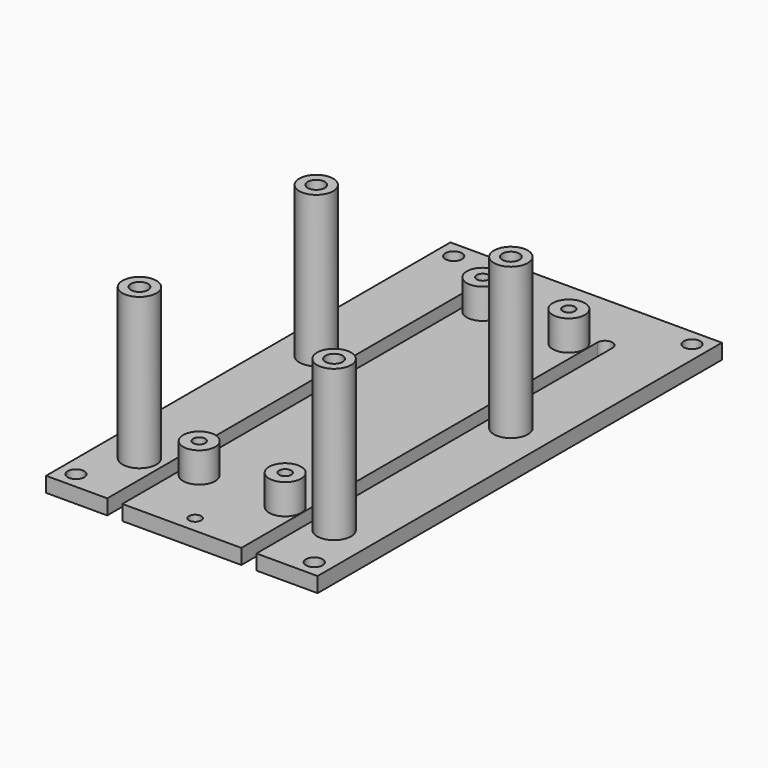
from build123d import *

# Parameters (mm, degrees)
SKETCH006_W     = 36
SKETCH006_H     = 67
PAD003_DEPTH    = 2
SKETCH007_R     = 2.125
PAD004_DEPTH    = 4
SKETCH012_R     = 1.1
POCKET002_DEPTH = 2.001
SKETCH022_R     = 0.8
POCKET008_DEPTH = 6.001
SKETCH040_R     = 2.25
PAD024_DEPTH    = 20
SKETCH041_R     = 1.1303
POCKET012_DEPTH = 22.001
SKETCH047_R     = 0.8
SKETCH047_W     = 2
SKETCH047_H     = 33.5
POCKET_DEPTH    = 22.001


with BuildPart() as part:
    # Sketch006 → Pad003 (new body)
    with BuildSketch(Plane.XY):
        with Locations((18, 33.5)):
            Rectangle(SKETCH006_W, SKETCH006_H)
    extrude(amount=PAD003_DEPTH)

    # Sketch007 (on DatumPlane) → Pad004 (join)
    with BuildSketch(Plane.XY.offset(2)):
        with Locations((12.3, 57)):
            Circle(SKETCH007_R)
        with Locations((23.7, 57)):
            Circle(SKETCH007_R)
        with Locations((23.7, 10)):
            Circle(SKETCH007_R)
        with Locations((12.3, 10)):
            Circle(SKETCH007_R)
    extrude(amount=PAD004_DEPTH)

    # Sketch012 (on DatumPlane) → Pocket002 (cut, through all)
    with BuildSketch(Plane.XY.offset(2)):
        with Locations((2.2, 64.8)):
            Circle(SKETCH012_R)
        with Locations((33.8, 64.8)):
            Circle(SKETCH012_R)
        with Locations((33.8, 2.2)):
            Circle(SKETCH012_R)
        with Locations((2.2, 2.2)):
            Circle(SKETCH012_R)
        with BuildLine():
            ThreePointArc((10.11, 59), (9.11, 60), (8.11, 59))
            Line((8.11, 59), (8.11, 8))
            ThreePointArc((8.11, 8), (9.11, 7), (10.11, 8))
            Line((10.11, 8), (10.11, 59))
        make_face()
        with BuildLine():
            ThreePointArc((25.89, 8), (26.89, 7), (27.89, 8))
            Line((27.89, 8), (27.89, 59))
            ThreePointArc((27.89, 59), (26.89, 60), (25.89, 59))
            Line((25.89, 59), (25.89, 8))
        make_face()
    extrude(amount=-POCKET002_DEPTH, mode=Mode.SUBTRACT)

    # Sketch022 → Pocket008 (cut, through all)
    with BuildSketch(Plane.XY):
        with Locations((12.3, 10)):
            Circle(SKETCH022_R)
        with Locations((23.7, 10)):
            Circle(SKETCH022_R)
        with Locations((12.3, 57)):
            Circle(SKETCH022_R)
        with Locations((23.7, 57)):
            Circle(SKETCH022_R)
    extrude(amount=POCKET008_DEPTH, mode=Mode.SUBTRACT)

    # Sketch040 (on DatumPlane) → Pad024 (join)
    with BuildSketch(Plane.XY.offset(2)):
        with Locations((5.1, 9.1)):
            Circle(SKETCH040_R)
        with Locations((30.9, 9.1)):
            Circle(SKETCH040_R)
        with Locations((5.1, 38.4)):
            Circle(SKETCH040_R)
        with Locations((30.9, 38.4)):
            Circle(SKETCH040_R)
    extrude(amount=PAD024_DEPTH)

    # Sketch041 → Pocket012 (cut, through all)
    with BuildSketch(Plane.XY):
        with Locations((5.1, 38.4)):
            Circle(SKETCH041_R)
        with Locations((30.9, 38.4)):
            Circle(SKETCH041_R)
        with Locations((30.9, 9.1)):
            Circle(SKETCH041_R)
        with Locations((5.1, 9.1)):
            Circle(SKETCH041_R)
    extrude(amount=POCKET012_DEPTH, mode=Mode.SUBTRACT)

    # Sketch047 → Pocket (cut, through all)
    with BuildSketch(Plane.XY):
        with Locations((18, 2.2)):
            Circle(SKETCH047_R)
        with Locations((9.11, 16.75)):
            Rectangle(SKETCH047_W, SKETCH047_H)
        with Locations((26.89, 16.75)):
            Rectangle(SKETCH047_W, SKETCH047_H)
    extrude(amount=POCKET_DEPTH, mode=Mode.SUBTRACT)


with BuildPart() as part_1:
    # Body002 placement: moved
    add(part.part.moved(Location((0, 0, 15.75))))


solid = part_1.part
